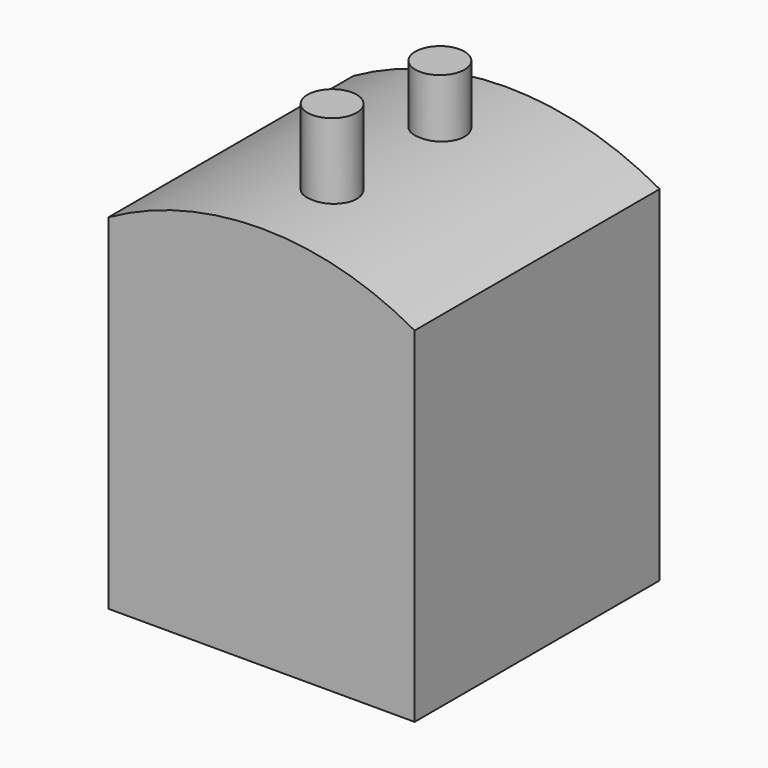
from build123d import *

# Parameters (mm, degrees)
F0_W     = 50.8
F0_H     = 50.8
F1_DEPTH = 57.15
F3_DEPTH = 50.8
F4_R     = 4.0723926256
F5_DEPTH = 10.16
F8_DEPTH = 2.794


with BuildPart() as f1:
    # F0 (on Top) → F1 (new body)
    with BuildSketch(Plane.XY):
        Rectangle(F0_W, F0_H)
    extrude(amount=F1_DEPTH)

    # F2 (on face) → F3 (join)
    with BuildSketch(Plane.XZ.offset(25.4)):
        with BuildLine():
            Line((-25.4, 57.15), (25.4, 57.15))
            ThreePointArc((25.4, 57.15), (0, 63.7987221807), (-25.4, 57.15))
        make_face()
    extrude(amount=-F3_DEPTH)


with BuildPart() as f5:
    # F4 (on Top) → F5 (new body)
    with BuildSketch(Plane.XY):
        with Locations((-60.7853010297, 88.0815982819)):
            Circle(F4_R)
    extrude(amount=F5_DEPTH)


with BuildPart() as f5_1:
    # F6: moved
    add(f5.part.moved(Location((60.96, -74.93, 63.246))))


with BuildPart() as f7_1:
    # F7: copy of F5
    add(f5_1.part.moved(Location((0, -24.13, 0))))

    # F8 (add): a face of the model
    f8_faces = [f7_1.faces().sort_by_distance(p)[0] for p in [
        (0.1746989703, -10.9784017181, 73.406),
    ]]
    extrude(f8_faces, amount=F8_DEPTH)


with BuildPart() as f5_2:
    # F9: moved
    add(f5_1.part.moved(Location((0, -1.778, 0))))


solid = Compound([f1.part, f7_1.part, f5_2.part])
